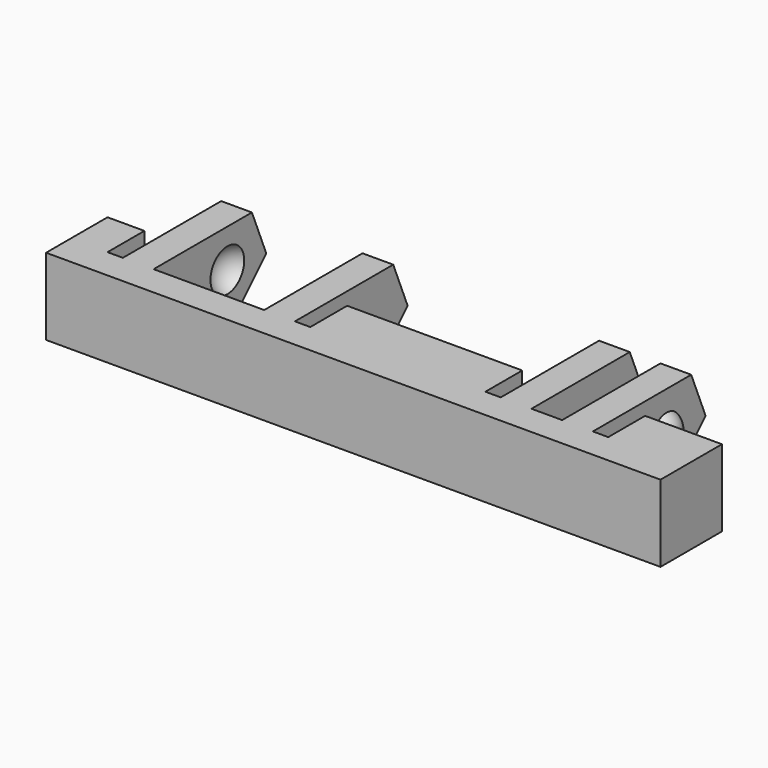
from build123d import *

# Parameters (mm, degrees)
BOX135_W               = 12
BOX135_H               = 44
BOX135_DEPTH           = 10
BOX137_W               = 4
BOX137_H               = 1
BOX137_DEPTH           = 7
BOX139_W               = 4
BOX139_H               = 1
BOX139_DEPTH           = 7
BOX133_W               = 4
BOX133_H               = 2
BOX133_DEPTH           = 7
BOX140_W               = 4
BOX140_H               = 1
BOX140_DEPTH           = 7
BOX136_W               = 4
BOX136_H               = 1
BOX136_DEPTH           = 7
BOX144_W               = 4
BOX144_H               = 7.2
BOX144_DEPTH           = 7
BOX142_W               = 13
BOX142_H               = 40
BOX142_DEPTH           = 10
BOX142_PITCH_ANGLE     = -45
BOX132_W               = 10
BOX132_H               = 2
BOX132_DEPTH           = 7
BOX134_W               = 10
BOX134_H               = 2
BOX134_DEPTH           = 7
BOX141_W               = 10
BOX141_H               = 2
BOX141_DEPTH           = 7
BOX143_W               = 10
BOX143_H               = 2
BOX143_DEPTH           = 7
BOX138_W               = 5
BOX138_H               = 40
BOX138_DEPTH           = 7
CHAMFER012_SIZE        = 4
CUT040_PLACEMENT_ANGLE = 180
CUT039_PLACEMENT_ANGLE = -90


with BuildPart() as cube119:
    # Box135 → Box135 (new body)
    with BuildSketch(Plane(origin=(-11, -2, -12), x_dir=(1, 0, 0), z_dir=(0, 0, 1))):
        with Locations((6, 22)):
            Rectangle(BOX135_W, BOX135_H)
    extrude(amount=BOX135_DEPTH)


with BuildPart() as cube121:
    # Box137 → Box137 (new body)
    with BuildSketch(Plane(origin=(-1, 12, 0), x_dir=(1, 0, 0), z_dir=(0, 0, 1))):
        with Locations((2, 0.5)):
            Rectangle(BOX137_W, BOX137_H)
    extrude(amount=BOX137_DEPTH)


with BuildPart() as cube123:
    # Box139 → Box139 (new body)
    with BuildSketch(Plane(origin=(-1, 36.6, 0), x_dir=(1, 0, 0), z_dir=(0, 0, 1))):
        with Locations((2, 0.5)):
            Rectangle(BOX139_W, BOX139_H)
    extrude(amount=BOX139_DEPTH)


with BuildPart() as cube117:
    # Box133 → Box133 (new body)
    with BuildSketch(Plane(origin=(-1, 8, 0), x_dir=(1, 0, 0), z_dir=(0, 0, 1))):
        with Locations((2, 1)):
            Rectangle(BOX133_W, BOX133_H)
    extrude(amount=BOX133_DEPTH)


with BuildPart() as cube124:
    # Box140 → Box140 (new body)
    with BuildSketch(Plane(origin=(-1, 24.4, 0), x_dir=(1, 0, 0), z_dir=(0, 0, 1))):
        with Locations((2, 0.5)):
            Rectangle(BOX140_W, BOX140_H)
    extrude(amount=BOX140_DEPTH)


with BuildPart() as cube120:
    # Box136 → Box136 (new body)
    with BuildSketch(Plane(origin=(-1, 5, 0), x_dir=(1, 0, 0), z_dir=(0, 0, 1))):
        with Locations((2, 0.5)):
            Rectangle(BOX136_W, BOX136_H)
    extrude(amount=BOX136_DEPTH)


with BuildPart() as fusion043:
    # Box144 → Box144 (new body)
    with BuildSketch(Plane(origin=(-1, 27.4, 0), x_dir=(1, 0, 0), z_dir=(0, 0, 1))):
        with Locations((2, 3.6)):
            Rectangle(BOX144_W, BOX144_H)
    extrude(amount=BOX144_DEPTH)

    # Fusion043: union Cube121, Cube123, Cube117, Cube124, Cube120
    add(cube121.part)
    add(cube123.part)
    add(cube117.part)
    add(cube124.part)
    add(cube120.part)


with BuildPart() as sphere048:
    # Sphere048 → Sphere048 (revolve)
    with BuildSketch(Plane(origin=(-3, 28, 2.5), x_dir=(1, 0, 0), z_dir=(0, -1, 0))):
        with BuildLine():
            ThreePointArc((0, -1.5), (1.5, 0), (0, 1.5))
            Line((0, 1.5), (0, -1.5))
        make_face()
    revolve(axis=Axis((-3, 28, 2.5), (0, 0, 1)))


with BuildPart() as fusion045:
    # Sphere050 → Sphere050 (revolve)
    with BuildSketch(Plane(origin=(-3, 34, 2.5), x_dir=(1, 0, 0), z_dir=(0, -1, 0))):
        with BuildLine():
            ThreePointArc((0, -1.5), (1.5, 0), (0, 1.5))
            Line((0, 1.5), (0, -1.5))
        make_face()
    revolve(axis=Axis((-3, 34, 2.5), (0, 0, 1)))

    # Fusion045: union Sphere048
    add(sphere048.part)


with BuildPart() as sphere047:
    # Sphere047 → Sphere047 (revolve)
    with BuildSketch(Plane(origin=(-3, 11.5, 2.5), x_dir=(1, 0, 0), z_dir=(0, -1, 0))):
        with BuildLine():
            ThreePointArc((0, -1.25), (1.25, 0), (0, 1.25))
            Line((0, 1.25), (0, -1.25))
        make_face()
    revolve(axis=Axis((-3, 11.5, 2.5), (0, 0, 1)))


with BuildPart() as cube126:
    # Box142 → Box142 (new body)
    with BuildSketch(Plane.XY):
        with Locations((6.5, 20)):
            Rectangle(BOX142_W, BOX142_H)
    extrude(amount=BOX142_DEPTH)


with BuildPart() as cube126_1:
    # Box142 pitch: moved
    add(cube126.part.rotate(Axis((0, 0, 0), (0, 1, 0)), BOX142_PITCH_ANGLE))


with BuildPart() as cube126_2:
    # Box142 placement: moved
    add(cube126_1.part.moved(Location((-10.19, 0, -1.19))))


with BuildPart() as cube116:
    # Box132 → Box132 (new body)
    with BuildSketch(Plane(origin=(-10, 6, 0), x_dir=(1, 0, 0), z_dir=(0, 0, 1))):
        with Locations((5, 1)):
            Rectangle(BOX132_W, BOX132_H)
    extrude(amount=BOX132_DEPTH)


with BuildPart() as cube118:
    # Box134 → Box134 (new body)
    with BuildSketch(Plane(origin=(-10, 10, 0), x_dir=(1, 0, 0), z_dir=(0, 0, 1))):
        with Locations((5, 1)):
            Rectangle(BOX134_W, BOX134_H)
    extrude(amount=BOX134_DEPTH)


with BuildPart() as cube125:
    # Box141 → Box141 (new body)
    with BuildSketch(Plane(origin=(-10, 25.4, 0), x_dir=(1, 0, 0), z_dir=(0, 0, 1))):
        with Locations((5, 1)):
            Rectangle(BOX141_W, BOX141_H)
    extrude(amount=BOX141_DEPTH)


with BuildPart() as cube127:
    # Box143 → Box143 (new body)
    with BuildSketch(Plane(origin=(-10, 34.6, 0), x_dir=(1, 0, 0), z_dir=(0, 0, 1))):
        with Locations((5, 1)):
            Rectangle(BOX143_W, BOX143_H)
    extrude(amount=BOX143_DEPTH)


with BuildPart() as cut037:
    # Box138 → Box138 (new body)
    with BuildSketch(Plane.XY):
        with Locations((2.5, 20)):
            Rectangle(BOX138_W, BOX138_H)
    extrude(amount=BOX138_DEPTH)

    # Fusion044: union Cube116, Cube118, Cube125, Cube127
    add(cube116.part)
    add(cube118.part)
    add(cube125.part)
    add(cube127.part)

    # Cut037: cut Cube126
    add(cube126_2.part, mode=Mode.SUBTRACT)


with BuildPart() as cut039:
    # Sphere049 → Sphere049 (revolve)
    with BuildSketch(Plane(origin=(-3, 6.5, 2.5), x_dir=(1, 0, 0), z_dir=(0, -1, 0))):
        with BuildLine():
            ThreePointArc((0, -1.25), (1.25, 0), (0, 1.25))
            Line((0, 1.25), (0, -1.25))
        make_face()
    revolve(axis=Axis((-3, 6.5, 2.5), (0, 0, 1)))

    # Fusion042: union Sphere047, Cut037
    add(sphere047.part)
    add(cut037.part)

    # Cut038: cut Fusion045
    add(fusion045.part, mode=Mode.SUBTRACT)

    # Chamfer012
    chamfer012_edges = [cut039.edges().sort_by_distance(p)[0] for p in [
        (-9, 7, 0),
        (-9, 11, 0),
        (-9, 35.6, 0),
        (-9, 26.4, 0),
    ]]
    chamfer(chamfer012_edges, length=CHAMFER012_SIZE)

    # Cut040: cut Fusion043
    add(fusion043.part, mode=Mode.SUBTRACT)


with BuildPart() as cut039_1:
    # Cut040 placement: moved
    add(cut039.part.moved(Location((-5, 40, 3))).rotate(Axis((-5, 40, 3), (1, 0, 0)), CUT040_PLACEMENT_ANGLE))

    # Cut039: cut Cube119
    add(cube119.part, mode=Mode.SUBTRACT)


with BuildPart() as cut039_2:
    # Cut039 placement: moved
    add(cut039_1.part.moved(Location((0, 40, 0))).rotate(Axis((0, 40, 0), (0, 0, 1)), CUT039_PLACEMENT_ANGLE))


solid = cut039_2.part
